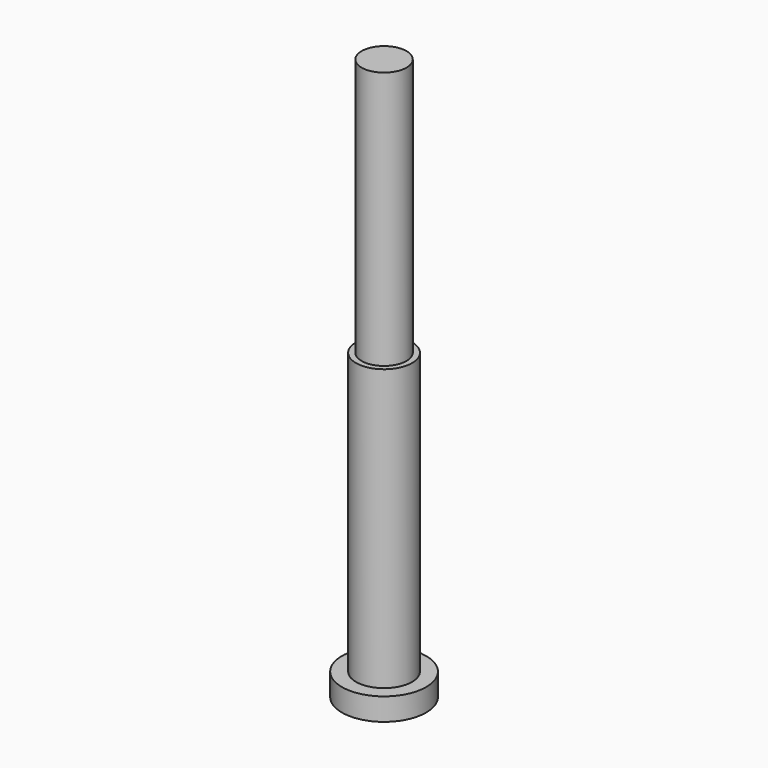
from build123d import *

# Parameters (mm, degrees)
F0_R     = 7.5
F1_DEPTH = 4
F2_R     = 5
F3_DEPTH = 54
F4_R     = 4
F5_DEPTH = 46


with BuildPart() as f1:
    # F0 (on Top) → F1 (new body)
    with BuildSketch(Plane.XY):
        Circle(F0_R)
    extrude(amount=F1_DEPTH)

    # F2 (on Top) → F3 (join)
    with BuildSketch(Plane.XY):
        Circle(F2_R)
    extrude(amount=F3_DEPTH)

    # F4 (on face) → F5 (join)
    with BuildSketch(Plane.XY.offset(54)):
        Circle(F4_R)
    extrude(amount=F5_DEPTH)


solid = f1.part
